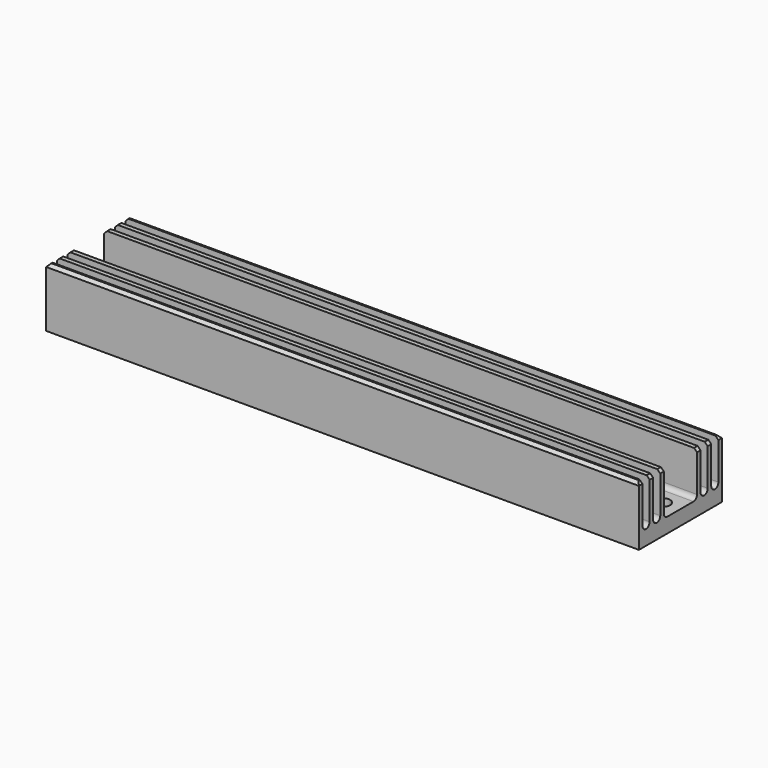
from build123d import *

# Parameters (mm, degrees)
F0_W     = 200
F0_H     = 35
F1_DEPTH = 20
F2_R     = 2.5
F3_DEPTH = 25
F4_SIZE  = 1
F6_DEPTH = 240
F8_DEPTH = 250


with BuildPart() as f1:
    # F0 (on Top) → F1 (new body)
    with BuildSketch(Plane.XY):
        Rectangle(F0_W, F0_H)
    extrude(amount=F1_DEPTH)

    # F2 (on face) → F3 (cut)
    with BuildSketch(Plane.XY.offset(20)):
        with Locations((-94, 0)):
            Circle(F2_R)
        with Locations((94, 0)):
            Circle(F2_R)
    extrude(amount=-F3_DEPTH, mode=Mode.SUBTRACT)

    # F4
    f4_edges = [f1.edges().sort_by_distance(p)[0] for p in [
        (0, 17.5, 20),
        (100, 0, 20),
        (-100, 0, 20),
        (0, -17.5, 20),
        (-96.5, 0, 20),
        (91.5, 0, 20),
    ]]
    chamfer(f4_edges, length=F4_SIZE)

    # F5 (on face) → F6 (cut)
    with BuildSketch(Plane(origin=(-100, 0, 0), x_dir=(0, -1, 0), z_dir=(-1, 0, 0))):
        with BuildLine():
            Line((-13, 21.054447), (-16, 21.054447))
            Line((-16, 21.054447), (-16, 6.5))
            ThreePointArc((-16, 6.5), (-15.56066, 5.43934), (-14.5, 5))
            ThreePointArc((-14.5, 5), (-13.43934, 5.43934), (-13, 6.5))
            Line((-13, 6.5), (-13, 21.054447))
        make_face()
        with BuildLine():
            Line((-8.5, 21.054447), (-11.5, 21.054447))
            Line((-11.5, 21.054447), (-11.5, 6.5))
            ThreePointArc((-11.5, 6.5), (-11.06066, 5.43934), (-10, 5))
            ThreePointArc((-10, 5), (-8.93934, 5.43934), (-8.5, 6.5))
            Line((-8.5, 6.5), (-8.5, 21.054447))
        make_face()
        with BuildLine():
            Line((-4, 20.95042), (-7, 20.95042))
            Line((-7, 20.95042), (-7, 6.5))
            ThreePointArc((-7, 6.5), (-6.56066, 5.43934), (-5.5, 5))
            ThreePointArc((-5.5, 5), (-4.43934, 5.43934), (-4, 6.5))
            Line((-4, 6.5), (-4, 20.95042))
        make_face()
        with BuildLine():
            Line((11.5, 21.002434), (8.5, 21.002434))
            Line((8.5, 21.002434), (8.5, 6.5))
            ThreePointArc((8.5, 6.5), (8.93934, 5.43934), (10, 5))
            ThreePointArc((10, 5), (11.06066, 5.43934), (11.5, 6.5))
            Line((11.5, 6.5), (11.5, 21.002434))
        make_face()
        with BuildLine():
            Line((16, 21.002434), (13, 21.002434))
            Line((13, 21.002434), (13, 6.5))
            ThreePointArc((13, 6.5), (13.43934, 5.43934), (14.5, 5))
            ThreePointArc((14.5, 5), (15.56066, 5.43934), (16, 6.5))
            Line((16, 6.5), (16, 21.002434))
        make_face()
        with BuildLine():
            Line((7, 21.002434), (4, 21.002434))
            Line((4, 21.002434), (4, 6.5))
            ThreePointArc((4, 6.5), (4.43934, 5.43934), (5.5, 5))
            ThreePointArc((5.5, 5), (6.56066, 5.43934), (7, 6.5))
            Line((7, 6.5), (7, 21.002434))
        make_face()
    extrude(amount=-F6_DEPTH, mode=Mode.SUBTRACT)

    # F7 (on face) → F8 (cut)
    with BuildSketch(Plane(origin=(-100, 0, 0), x_dir=(0, -1, 0), z_dir=(-1, 0, 0))):
        with BuildLine():
            ThreePointArc((-4, 6.5), (-4.43934, 5.43934), (-5.5, 5))
            Line((-5.5, 5), (5.5, 5))
            ThreePointArc((5.5, 5), (4.43934, 5.43934), (4, 6.5))
            Line((4, 6.5), (4, 19))
            Line((4, 19), (-4, 19))
            Line((-4, 19), (-4, 6.5))
        make_face()
        with BuildLine():
            Line((5.5, 21.402081), (-5.5, 21.402081))
            Line((-5.5, 21.402081), (-5.5, 5))
            ThreePointArc((-5.5, 5), (-4.43934, 5.43934), (-4, 6.5))
            Line((-4, 6.5), (-4, 19))
            Line((-4, 19), (4, 19))
            Line((4, 19), (4, 6.5))
            ThreePointArc((4, 6.5), (4.43934, 5.43934), (5.5, 5))
            Line((5.5, 5), (5.5, 21.402081))
        make_face()
    extrude(amount=-F8_DEPTH, mode=Mode.SUBTRACT)


solid = f1.part
